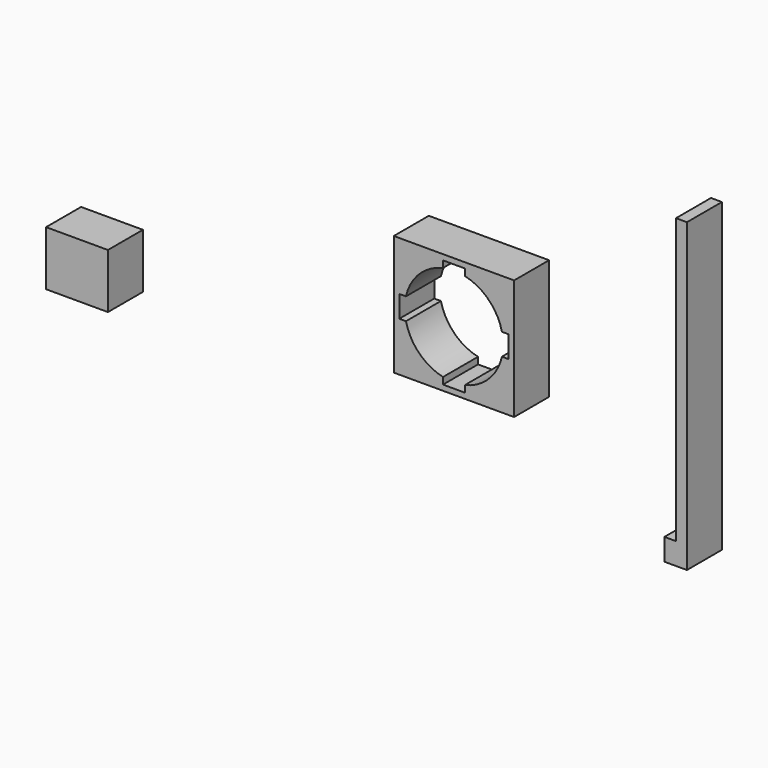
from build123d import *

# Parameters (mm, degrees)
F0_W     = 35.9156
F0_H     = 31.75
F1_DEPTH = 25.4


with BuildPart() as f1:
    # F0 (on Front) → F1 (new body)
    with BuildSketch(Plane.XZ):
        Polygon((-92.476995, -117.526305), (-121.051995, -117.526305), (-121.051995, -146.101305), (-121.051995, -158.801305), (-121.051995, -187.376305), (-92.476995, -187.376305), (-86.126995, -187.376305), (-79.776995, -187.376305), (-51.201995, -187.376305), (-51.201995, -158.801305), (-51.201995, -152.451305), (-51.201995, -146.101305), (-51.201995, -117.526305), (-79.776995, -117.526305), (-86.126995, -117.526305), align=None)
        with BuildLine():
            ThreePointArc((-92.476995, -180.311817), (-106.332572, -172.656882), (-113.987507, -158.801305))
            Line((-113.987507, -158.801305), (-117.519751, -158.801305))
            Line((-117.519751, -158.801305), (-117.876995, -158.801305))
            Line((-117.876995, -158.801305), (-117.876995, -152.451305))
            Line((-117.876995, -152.451305), (-117.876995, -146.101305))
            Line((-117.876995, -146.101305), (-117.519751, -146.101305))
            Line((-117.519751, -146.101305), (-113.987507, -146.101305))
            ThreePointArc((-113.987507, -146.101305), (-106.332572, -132.245729), (-92.476995, -124.590794))
            Line((-92.476995, -124.590794), (-92.476995, -121.058549))
            Line((-92.476995, -121.058549), (-92.476995, -120.701305))
            Line((-92.476995, -120.701305), (-86.126995, -120.701305))
            Line((-86.126995, -120.701305), (-79.776995, -120.701305))
            Line((-79.776995, -120.701305), (-79.776995, -121.058549))
            Line((-79.776995, -121.058549), (-79.776995, -124.590794))
            ThreePointArc((-79.776995, -124.590794), (-65.921419, -132.245729), (-58.266484, -146.101305))
            Line((-58.266484, -146.101305), (-54.734239, -146.101305))
            Line((-54.734239, -146.101305), (-54.376995, -146.101305))
            Line((-54.376995, -146.101305), (-54.376995, -152.451305))
            Line((-54.376995, -152.451305), (-54.376995, -158.801305))
            Line((-54.376995, -158.801305), (-54.734239, -158.801305))
            Line((-54.734239, -158.801305), (-58.266484, -158.801305))
            ThreePointArc((-58.266484, -158.801305), (-65.921419, -172.656882), (-79.776995, -180.311817))
            Line((-79.776995, -180.311817), (-79.776995, -183.844061))
            Line((-79.776995, -183.844061), (-79.776995, -184.201305))
            Line((-79.776995, -184.201305), (-86.126995, -184.201305))
            Line((-86.126995, -184.201305), (-92.476995, -184.201305))
            Line((-92.476995, -184.201305), (-92.476995, -183.844061))
            Line((-92.476995, -183.844061), (-92.476995, -180.311817))
        make_face(mode=Mode.SUBTRACT)
        Polygon((36.067545, -220.23905), (36.067545, -232.93905), (49.148545, -232.93905), (49.148545, -220.23905), (49.148545, -55.13905), (42.798545, -55.13905), (42.798545, -220.23905), align=None)
        with Locations((-304.986647, -194.543284)):
            Rectangle(F0_W, F0_H)
    extrude(amount=F1_DEPTH)


solid = f1.part
